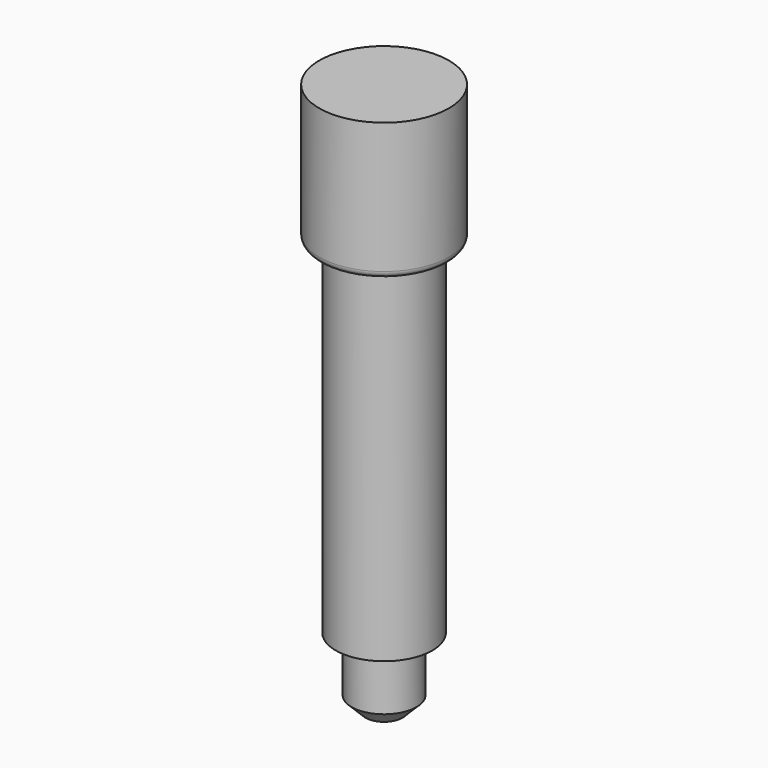
from build123d import *

# Parameters (mm, degrees)
F0_R     = 2.35
F1_DEPTH = 5
F2_R     = 3.5
F3_DEPTH = 35
F4_SIZE  = 1.016
F5_R     = 4.699
F6_DEPTH = 10
F7_R     = 0.5


with BuildPart() as f1:
    # F0 (on Top) → F1 (new body)
    with BuildSketch(Plane.XY):
        Circle(F0_R)
    extrude(amount=F1_DEPTH)

    # F2 (on face) → F3 (join)
    with BuildSketch(Plane.XY.offset(5)):
        Circle(F2_R)
    extrude(amount=F3_DEPTH)

    # F4
    f4_edges = [f1.edges().sort_by_distance(p)[0] for p in [
        (-2.35, 0, 0),
    ]]
    chamfer(f4_edges, length=F4_SIZE)

    # F5 (on face) → F6 (join)
    with BuildSketch(Plane.XY.offset(40)):
        Circle(F5_R)
    extrude(amount=-F6_DEPTH)

    # F7
    f7_edges = [f1.edges().sort_by_distance(p)[0] for p in [
        (-4.699, 0, 30),
    ]]
    fillet(f7_edges, radius=F7_R)


solid = f1.part
